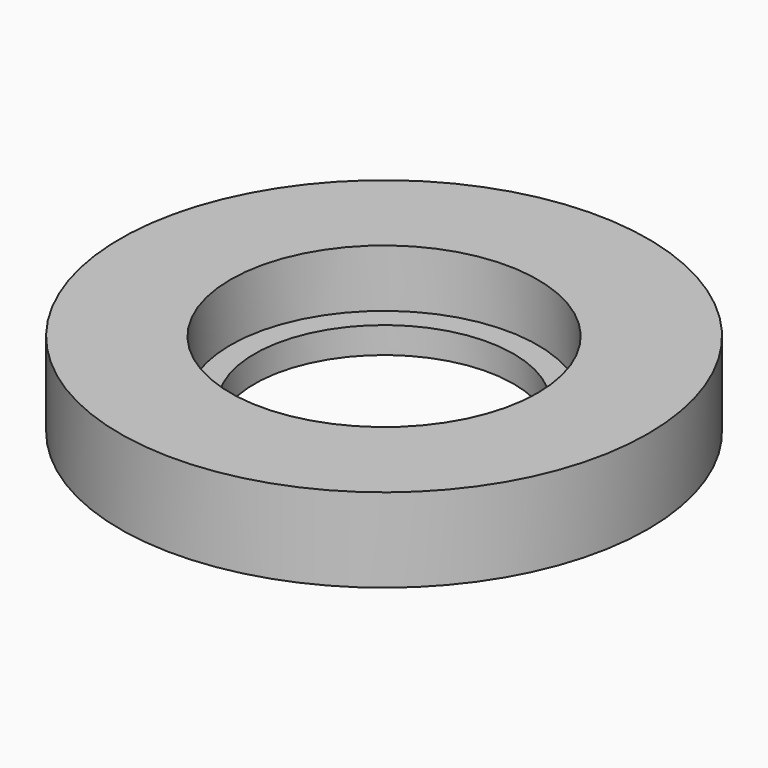
from build123d import *

# Parameters (mm, degrees)
F0_R     = 11
F0_R_2   = 6.4
F1_DEPTH = 3.5
F3_R     = 11
F3_R_2   = 5.4
F4_DEPTH = 1.1


with BuildPart() as f1:
    # F0 (on Top) → F1 (new body)
    with BuildSketch(Plane.XY):
        Circle(F0_R)
        Circle(F0_R_2, mode=Mode.SUBTRACT)
    extrude(amount=-F1_DEPTH)

    # F3 (on offset) → F4 (join, through all)
    with BuildSketch(Plane.XY.offset(-2.4)):
        Circle(F3_R)
        Circle(F3_R_2, mode=Mode.SUBTRACT)
    extrude(amount=-F4_DEPTH)


solid = f1.part
